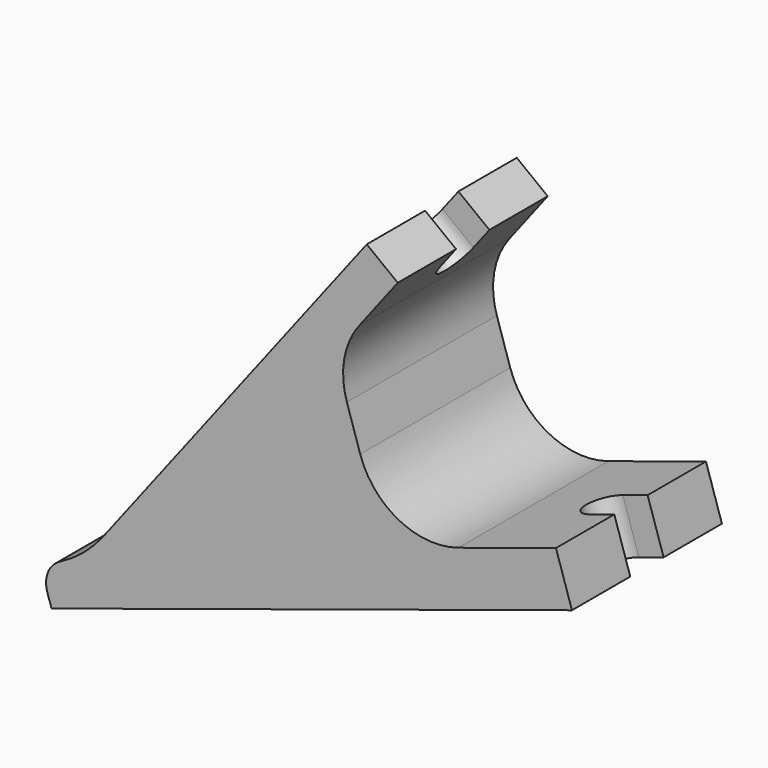
from build123d import *

# Parameters (mm, degrees)
F1_DEPTH      = 11.43
F1_DEPTH_BACK = 11.43
F4_DEPTH      = 25.4
F5_DEPTH      = 25.4
F6_R          = 9.525
F7_R          = 3.175


with BuildPart() as f1:
    # F0 (on Front) → F1 (new body, two sides)
    with BuildSketch(Plane.XZ) as f1_sk:
        with BuildLine():
            Line((44.7153352637, 32.1372644044), (12.5878580118, -9.6727170782))
            ThreePointArc((12.5878580118, -9.6727170782), (9.1419703563, -12.9784437821), (4.868931841, -15.1099016452))
            Line((4.868931841, -15.1099016452), (6.2711842112, -19.461553319))
            Line((6.2711842112, -19.461553319), (69.7327711211, 0.987960413))
            Line((69.7327711211, 0.987960413), (67.7851983847, 7.0319210711))
            Line((67.7851983847, 7.0319210711), (46.8382920625, 0.2821048541))
            Line((46.8382920625, 0.2821048541), (40.7535190047, 19.1651628715))
            Line((40.7535190047, 19.1651628715), (48.4916926673, 29.235449281))
            Line((48.4916926673, 29.235449281), (44.7153352637, 32.1372644044))
        make_face()
    extrude(amount=F1_DEPTH)
    extrude(f1_sk.sketch, amount=-F1_DEPTH_BACK)

    # F3 (on face) → F4 (cut)
    with BuildSketch(Plane(origin=(16.3642154154, 0, -12.5745322016), x_dir=(0, 1, 0), z_dir=(0.7929359378, 0, -0.6093050128))):
        with BuildLine():
            ThreePointArc((-2.54, 49.5530698125), (0, 47.0130698125), (2.54, 49.5530698125))
            ThreePointArc((2.54, 49.5530698125), (0, 52.0930698125), (-2.54, 49.5530698125))
        make_face()
        with BuildLine():
            ThreePointArc((-2.54, 49.5530698125), (0, 52.0930698125), (2.54, 49.5530698125))
            Line((2.54, 49.5530698125), (2.54, 52.7280698125))
            Line((2.54, 52.7280698125), (-2.54, 52.7280698125))
            Line((-2.54, 52.7280698125), (-2.54, 49.5530698125))
        make_face()
    extrude(amount=-F4_DEPTH, mode=Mode.SUBTRACT)

    # F2 (on face) → F5 (cut)
    with BuildSketch(Plane(origin=(4.3236114748, 0, -13.4175926609), x_dir=(0.951804828, 0, 0.3067043679), z_dir=(-0.3067043679, 0, 0.951804828))):
        with BuildLine():
            ThreePointArc((63.5, -2.54), (65.2960512242, -1.7960512242), (66.04, 0))
            ThreePointArc((66.04, 0), (65.2960512242, 1.7960512242), (63.5, 2.54))
            ThreePointArc((63.5, 2.54), (60.96, 0), (63.5, -2.54))
        make_face()
        with BuildLine():
            ThreePointArc((63.5, 2.54), (65.2960512242, 1.7960512242), (66.04, 0))
            ThreePointArc((66.04, 0), (65.2960512242, -1.7960512242), (63.5, -2.54))
            Line((63.5, -2.54), (66.675, -2.54))
            Line((66.675, -2.54), (66.675, 2.54))
            Line((66.675, 2.54), (63.5, 2.54))
        make_face()
    extrude(amount=-F5_DEPTH, mode=Mode.SUBTRACT)

    # F6
    f6_edges = [f1.edges().sort_by_distance(p)[0] for p in [
        (46.838292, 0, 0.282105),
        (40.753519, 0, 19.165163),
    ]]
    fillet(f6_edges, radius=F6_R)

    # F7
    f7_edges = [f1.edges().sort_by_distance(p)[0] for p in [
        (4.868932, 0, -15.109902),
    ]]
    fillet(f7_edges, radius=F7_R)


solid = f1.part
